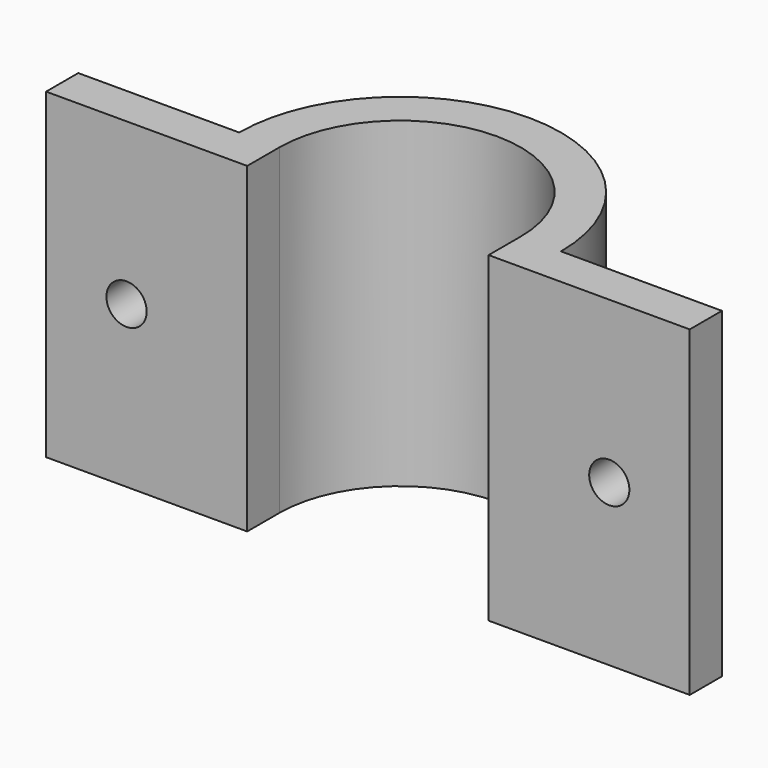
from build123d import *

# Parameters (mm, degrees)
PAD_DEPTH    = 40
SKETCH001_R  = 2.5
POCKET_DEPTH = 5


with BuildPart() as part:
    # Sketch → Pad (new body)
    with BuildSketch(Plane.XY):
        with BuildLine():
            ThreePointArc((15, 0), (0, 15), (-15, 0))
            Line((-15, -5), (-15, 0))
            Line((-40, -5), (-15, -5))
            Line((-40, 0), (-40, -5))
            Line((-20, 0), (-40, 0))
            ThreePointArc((20, 0), (0, 20), (-20, 0))
            Line((20, 0), (40, 0))
            Line((40, 0), (40, -5))
            Line((40, -5), (15, -5))
            Line((15, -5), (15, 0))
        make_face()
    extrude(amount=PAD_DEPTH)

    # Sketch001 (on Face1 of Pad) → Pocket (cut)
    with BuildSketch(Plane(origin=(0, 0, 0), x_dir=(-1, 0, 0), z_dir=(0, 1, 0))):
        with Locations((-30, 20)):
            Circle(SKETCH001_R)
        with Locations((30, 20)):
            Circle(SKETCH001_R)
    extrude(amount=-POCKET_DEPTH, mode=Mode.SUBTRACT)


solid = part.part
